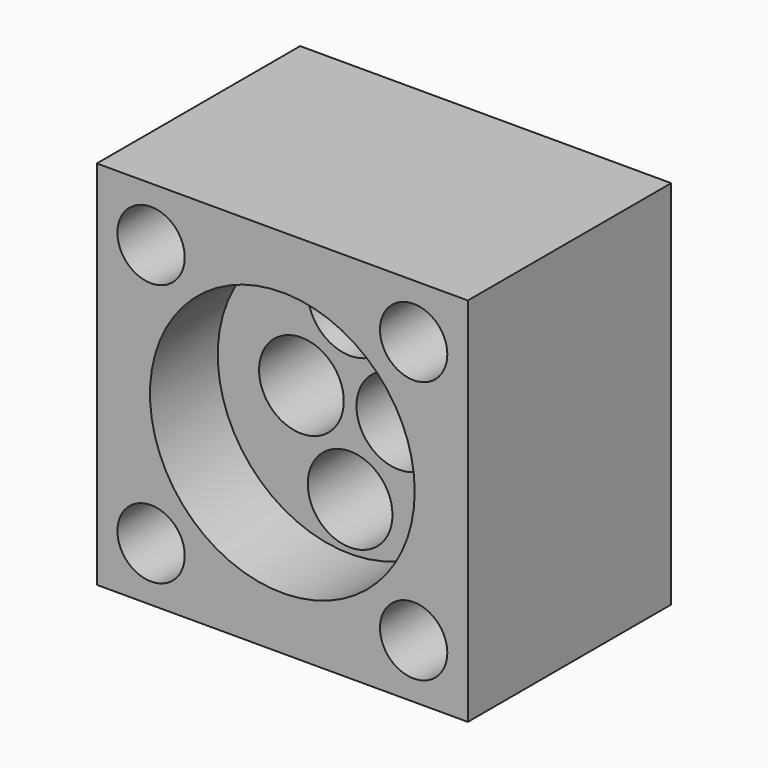
from build123d import *

# Parameters (mm, degrees)
F0_W     = 22.2504
F0_H     = 22.2504
F0_R     = 2.0193
F0_R_2   = 2.54
F1_DEPTH = 15.24
F2_R     = 7.9375
F3_DEPTH = 5.08


with BuildPart() as f1:
    # F0 (on Front) → F1 (new body)
    with BuildSketch(Plane.XZ):
        Rectangle(F0_W, F0_H)
        with Locations((-7.874, -7.874)):
            Circle(F0_R, mode=Mode.SUBTRACT)
        with Locations((7.874, -7.874)):
            Circle(F0_R, mode=Mode.SUBTRACT)
        with Locations((0, -5.05932)):
            Circle(F0_R_2, mode=Mode.SUBTRACT)
        with Locations((-2.921, 0)):
            Circle(F0_R_2, mode=Mode.SUBTRACT)
        with Locations((-7.874, 7.874)):
            Circle(F0_R, mode=Mode.SUBTRACT)
        with Locations((2.921, 0)):
            Circle(F0_R_2, mode=Mode.SUBTRACT)
        with Locations((0, 5.05932)):
            Circle(F0_R_2, mode=Mode.SUBTRACT)
        with Locations((7.874, 7.874)):
            Circle(F0_R, mode=Mode.SUBTRACT)
    extrude(amount=F1_DEPTH)

    # F2 (on face) → F3 (cut)
    with BuildSketch(Plane.XZ.offset(15.24)):
        Circle(F2_R)
    extrude(amount=-F3_DEPTH, mode=Mode.SUBTRACT)


solid = f1.part
